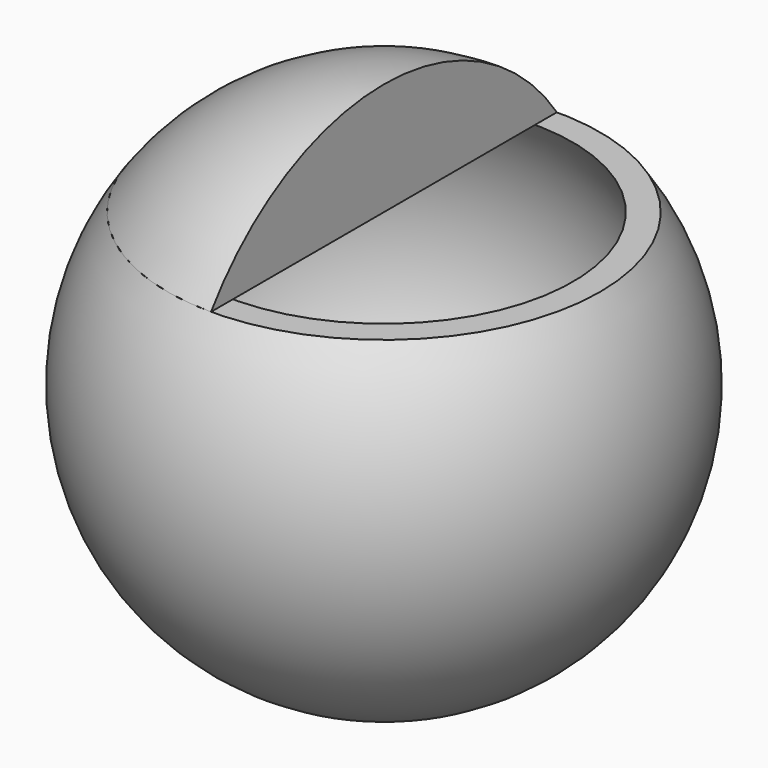
from build123d import *

# Parameters (mm, degrees)
F2_T          = -1.2
F4_ANGLE_BACK = 90
F4_ANGLE      = 180


with BuildPart() as f1:
    # F0 (on Front) → F1 (revolve)
    with BuildSketch(Plane.XZ):
        with BuildLine():
            Line((0, -13.7840487521), (0, 8.3168583271))
            Line((0, 8.3168583271), (-11.8777046422, 8.3168583271))
            ThreePointArc((-11.8777046422, 8.3168583271), (-13.7539022015, -4.5913150875), (-4.5, -13.7840487521))
            Line((-4.5, -13.7840487521), (0, -13.7840487521))
        make_face()
    revolve(axis=Axis((0, 0, 0.357975624), (0, 0, -1)))

    # F2
    f2_openings = [f1.faces().sort_by_distance(p)[0] for p in [
        (0, 0, 8.316858),
    ]]
    offset(amount=F2_T, openings=f2_openings)


with BuildPart() as f4:
    # F3 (on Front) → F4 (revolve)
    with BuildSketch(Plane.XZ, mode=Mode.PRIVATE) as f4_sk:
        with BuildLine():
            Line((0, 8.3129135892), (0, 14.5))
            ThreePointArc((0, 14.5), (-6.6953548919, 12.8616570811), (-11.8777046422, 8.3168583271))
            Line((-11.8777046422, 8.3168583271), (0, 8.3129135892))
        make_face()
    revolve(f4_sk.sketch.rotate(Axis((0, 0, 11.4064567946), (0, 0, 1)), -F4_ANGLE_BACK), axis=Axis((0, 0, 11.4064567946), (0, 0, 1)), revolution_arc=F4_ANGLE)


solid = Compound([f1.part, f4.part])
